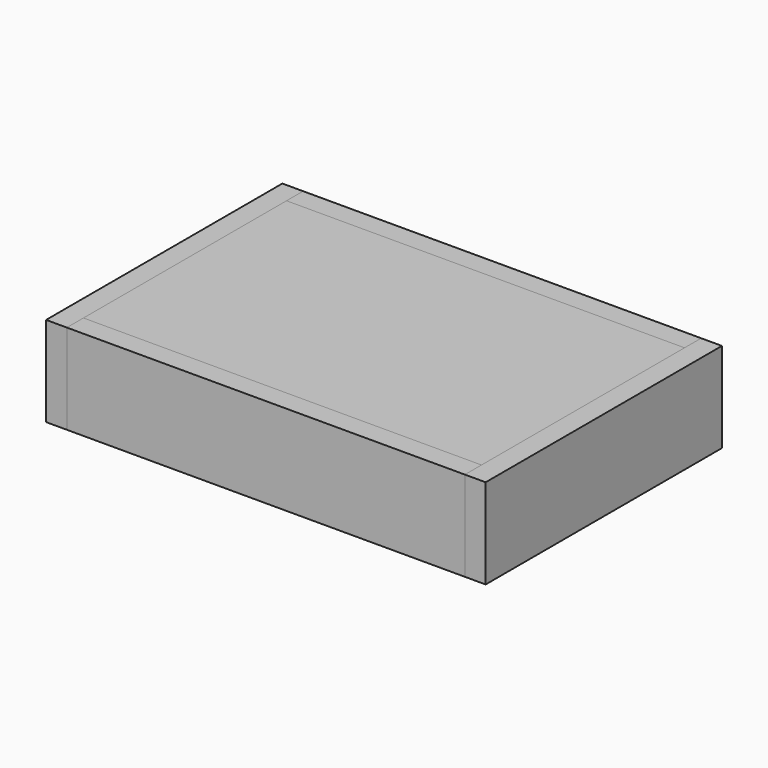
from build123d import *

# Parameters (mm, degrees)
F0_W     = 345
F0_H     = 220
F1_DEPTH = 60
F2_W     = 256
F2_H     = 78
F3_DEPTH = 18
F4_W     = 345
F4_H     = 78
F5_DEPTH = 18
F6_W     = 345
F6_H     = 220
F7_DEPTH = 18


with BuildPart() as f1:
    # F0 (on Top) → F1 (new body)
    with BuildSketch(Plane.XY):
        Rectangle(F0_W, F0_H)
    extrude(amount=F1_DEPTH)


with BuildPart() as f3:
    # F2 (on face) → F3 (new body)
    with BuildSketch(Plane(origin=(-172.5, 0, 0), x_dir=(0, -1, 0), z_dir=(-1, 0, 0))):
        with Locations((0, 21)):
            Rectangle(F2_W, F2_H)
    extrude(amount=F3_DEPTH)


with BuildPart() as f5:
    # F4 (on face) → F5 (new body)
    with BuildSketch(Plane(origin=(0, 110, 0), x_dir=(-1, 0, 0), z_dir=(0, 1, 0))):
        with Locations((0, 21)):
            Rectangle(F4_W, F4_H)
    extrude(amount=F5_DEPTH)


with BuildPart() as f7:
    # F6 (on face) → F7 (new body)
    with BuildSketch(Plane(origin=(0, 0, 0), x_dir=(1, 0, 0), z_dir=(0, 0, -1))):
        Rectangle(F6_W, F6_H)
    extrude(amount=F7_DEPTH)


with BuildPart() as f8_1:
    # F8: instance of F3
    add(f3.part.mirror(Plane.YZ))


with BuildPart() as f9_1:
    # F9: instance of F5
    add(f5.part.mirror(Plane.XZ))


solid = Compound([f1.part, f3.part, f5.part, f7.part, f8_1.part, f9_1.part])
